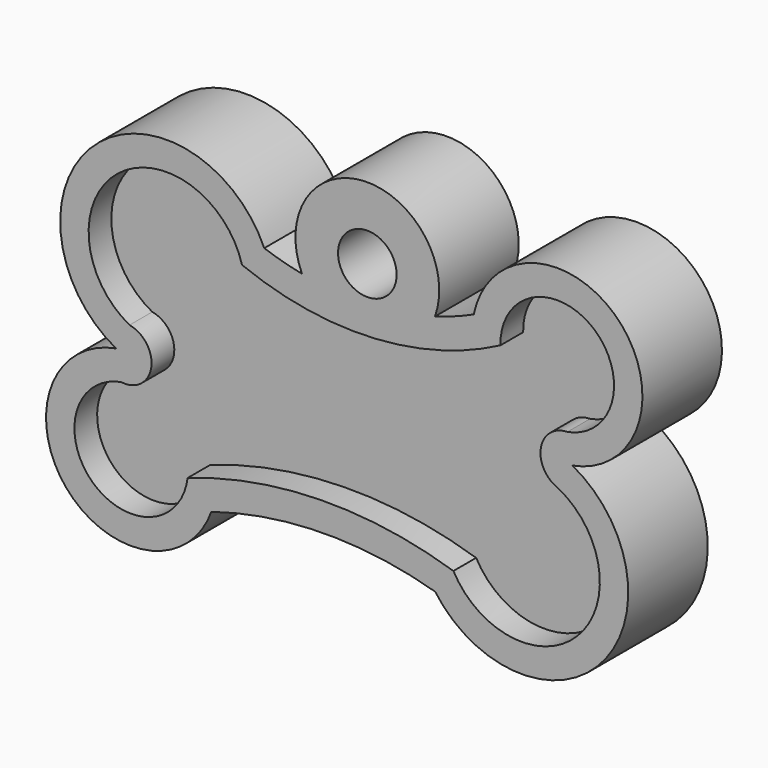
from build123d import *

# Parameters (mm, degrees)
F0_R     = 2.0629294667
F1_DEPTH = 2.5
F2_R     = 2.0629294667
F3_DEPTH = 2


with BuildPart() as f1:
    # F0 (on Front) → F1 (new body, symmetric)
    with BuildSketch(Plane.XZ):
        with BuildLine():
            ThreePointArc((-2.9733559883, 7.2877431949), (-4.3154842255, 7.6044358559), (-5.6322528526, 8.0139756335))
            ThreePointArc((-5.6322528526, 8.0139756335), (-17.5801495013, 10.517434281), (-16.0695298939, -1.5960940212))
            ThreePointArc((-16.0695298939, -1.5960940212), (-19.582990396, -11.3724926121), (-9.3573618969, -9.539763525))
            ThreePointArc((-9.3573618969, -9.539763525), (-1.4904220471, -8.2988519903), (6.4019401556, -9.3661958423))
            ThreePointArc((6.4019401556, -9.3661958423), (18.1250613944, -9.9607140927), (16.0695298939, 1.5960940212))
            ThreePointArc((16.0695298939, 1.5960940212), (19.2903403039, 11.694398655), (9.1217880274, 8.7027568356))
            ThreePointArc((9.1217880274, 8.7027568356), (7.7747031338, 8.1445681011), (6.3901188663, 7.6872511648))
            ThreePointArc((6.3901188663, 7.6872511648), (1.4108442723, 14.4610295973), (-2.9733559883, 7.2877431949))
        make_face()
        with Locations((1.6266660829, 9.4027022324)):
            Circle(F0_R, mode=Mode.SUBTRACT)
    extrude(amount=F1_DEPTH, both=True)

    # F2 (on face) → F3 (join)
    with BuildSketch(Plane.XZ.offset(2.5)):
        with BuildLine():
            ThreePointArc((16.0695298939, 1.5960940212), (19.2903403039, 11.694398655), (9.1217880274, 8.7027568356))
            ThreePointArc((9.1217880274, 8.7027568356), (7.7747031338, 8.1445681011), (6.3901188663, 7.6872511648))
            ThreePointArc((6.3901188663, 7.6872511648), (1.4108442723, 14.4610295973), (-2.9733559883, 7.2877431949))
            ThreePointArc((-2.9733559883, 7.2877431949), (-4.3154842255, 7.6044358559), (-5.6322528526, 8.0139756335))
            ThreePointArc((-5.6322528526, 8.0139756335), (-17.5801495013, 10.517434281), (-16.0695298939, -1.5960940212))
            ThreePointArc((-16.0695298939, -1.5960940212), (-19.582990396, -11.3724926121), (-9.3573618969, -9.539763525))
            ThreePointArc((-9.3573618969, -9.539763525), (-1.4904220471, -8.2988519903), (6.4019401556, -9.3661958423))
            ThreePointArc((6.4019401556, -9.3661958423), (18.1250613944, -9.9607140927), (16.0695298939, 1.5960940212))
        make_face()
        with BuildLine():
            ThreePointArc((-15.1176552555, 0.1628643844), (-15.9252476707, 9.3032172144), (-7.1989598192, 6.4659375844))
            ThreePointArc((-7.1989598192, 6.4659375844), (-0.1845688251, 4.9328619806), (6.9468667613, 5.7663056213))
            ThreePointArc((6.9468667613, 5.7663056213), (9.0151650827, 6.4803130594), (11.0012892597, 7.3984499345))
            ThreePointArc((11.0012892597, 7.3984499345), (17.5247915615, 10.60248732), (15.7130199292, 3.5640626808))
            ThreePointArc((15.7130199292, 3.5640626808), (13.8436374721, 1.9516732135), (15.1176552555, -0.1628643844))
            ThreePointArc((15.1176552555, -0.1628643844), (16.4083482365, -8.8697304896), (7.6890952534, -7.6655572624))
            ThreePointArc((7.6890952534, -7.6655572624), (-1.6967887275, -6.3015800969), (-11.0299805878, -7.9888208946))
            ThreePointArc((-11.0299805878, -7.9888208946), (-17.7471135252, -10.4074675027), (-15.7130199292, -3.5640626808))
            ThreePointArc((-15.7130199292, -3.5640626808), (-13.5900279212, -1.9921865278), (-15.1176552555, 0.1628643844))
        make_face(mode=Mode.SUBTRACT)
        with Locations((1.6266660829, 9.4027022324)):
            Circle(F2_R, mode=Mode.SUBTRACT)
    extrude(amount=F3_DEPTH)


solid = f1.part
